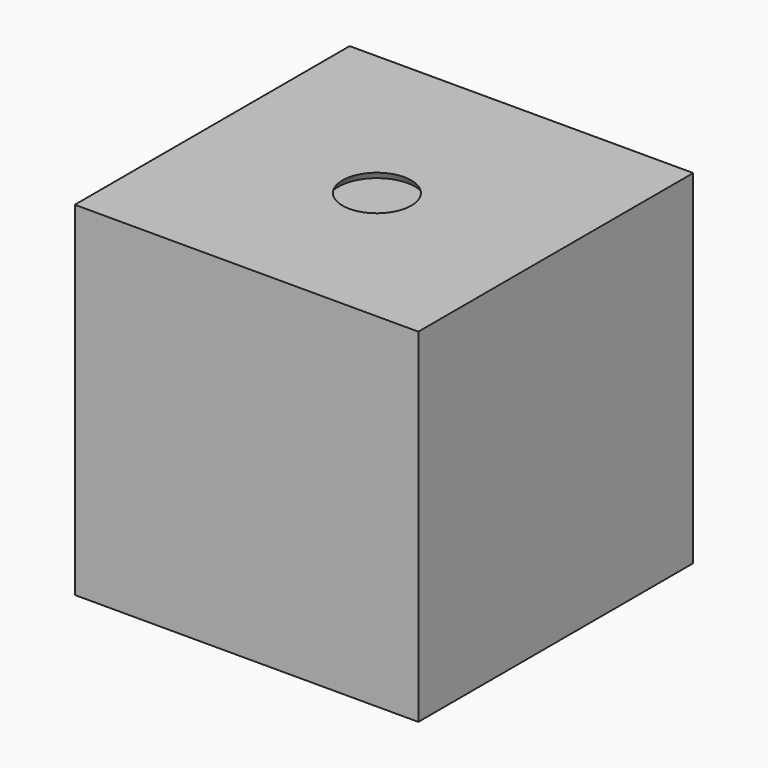
from build123d import *

# Parameters (mm, degrees)
F0_W     = 25.4
F0_H     = 25.4
F1_DEPTH = 25.4
F2_R     = 2.54
F3_DEPTH = 0.508
F3_TAPER = -30


with BuildPart() as f1:
    # F0 (on Front) → F1 (new body)
    with BuildSketch(Plane.XZ):
        Rectangle(F0_W, F0_H)
    extrude(amount=F1_DEPTH)

    # F2 (on face) → F3 (cut)
    with BuildSketch(Plane.XY.offset(12.7)):
        with Locations((0, -13.3584365249)):
            Circle(F2_R)
    extrude(amount=-F3_DEPTH, taper=F3_TAPER, mode=Mode.SUBTRACT)


solid = f1.part
